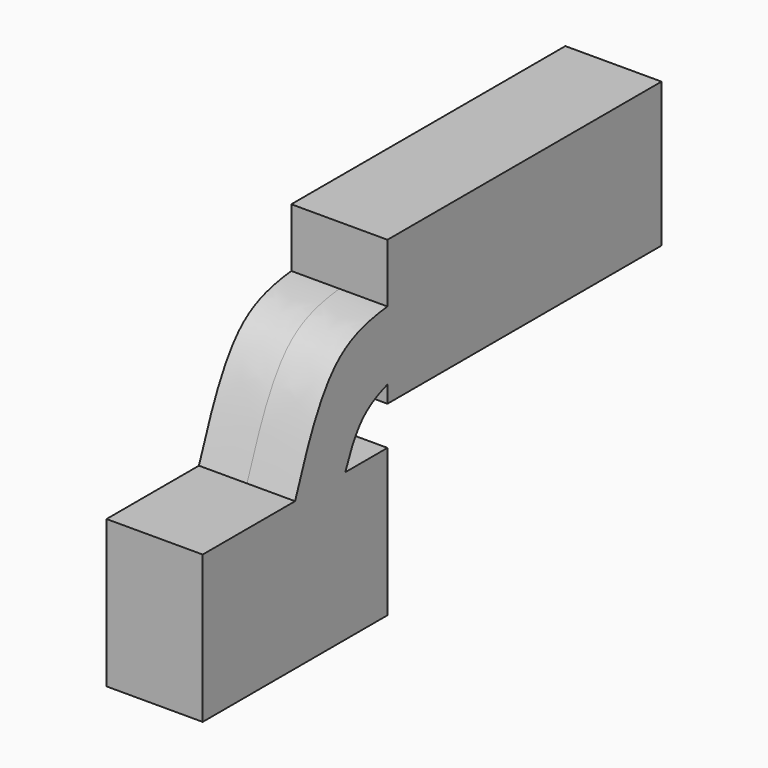
from build123d import *

# Parameters (mm, degrees)
F1_DEPTH = 14.02438


with BuildPart() as f1:
    # F0 (on Right) → F1 (new body, symmetric)
    with BuildSketch(Plane.YZ):
        Polygon((0, 47.7736666799), (0, 30.6390393525), (0, 10.6372975803), (0, 5.6631397456), (99.9035909772, 5.6631397456), (99.9035909772, 47.7736666799), align=None)
        with BuildLine():
            add(Edge.make_bspline(
                [(-33.6884222925, -5.6631397456), (-29.1470986378, 6.6140969626), (-21.326469053, 27.7567698753), (-4.8170343565, 30.103566169), (0, 30.6390393525)],
                knots=[0, 0, 0, 0, 0.4440648632, 0.7647256771, 0.7647256771, 0.7647256771, 0.7647256771], degree=3))
            Line((-33.6884222925, -5.6631397456), (-15.3921237215, -5.6631397456))
            add(Edge.make_bspline(
                [(-15.3921237215, -5.6631397456), (-13.4469685801, -1.0420002941), (-10.3240499344, 6.3771727322), (-2.7795746982, 9.7078291076), (0, 10.6372975803)],
                knots=[0, 0, 0, 0, 0.3701880082, 0.5943315309, 0.5943315309, 0.5943315309, 0.5943315309], degree=3))
            Line((0, 10.6372975803), (0, 30.6390393525))
        make_face()
        Polygon((-33.6884222925, -5.6631397456), (-67.3768445849, -5.6631397456), (-67.3768445849, -48.6449189484), (0, -48.6449189484), (0, -5.6631397456), (-15.3921237215, -5.6631397456), align=None)
    extrude(amount=F1_DEPTH, both=True)


solid = f1.part
